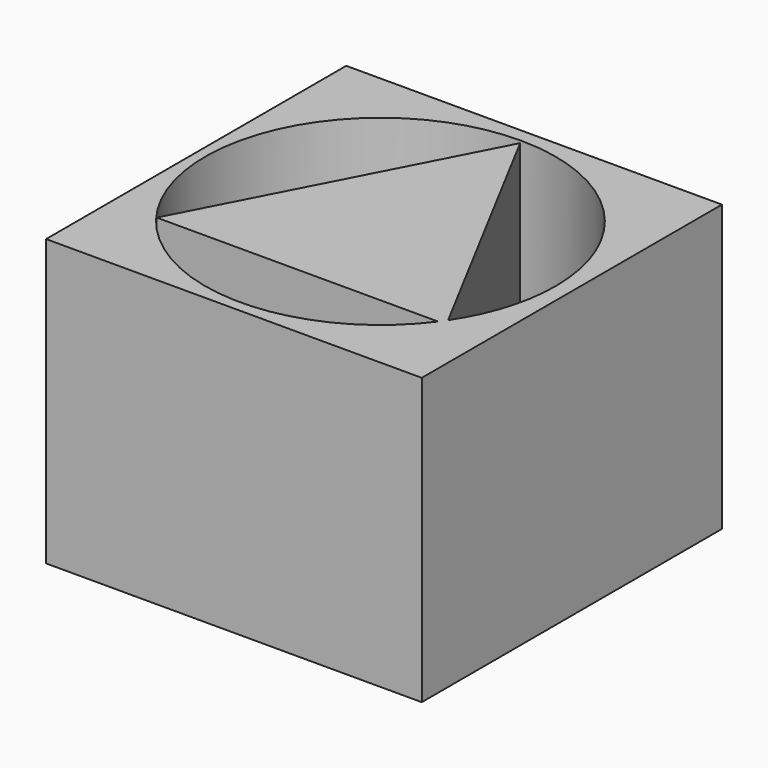
from build123d import *

# Parameters (mm, degrees)
F0_W     = 33.416076
F0_H     = 33.374747
F0_R     = 15.588949
F1_DEPTH = 25.4
F3_DEPTH = 25.4


with BuildPart() as f1:
    # F0 (on Top) → F1 (new body)
    with BuildSketch(Plane.XY):
        with Locations((-33.761238, 29.984143)):
            Rectangle(F0_W, F0_H)
        with Locations((-33.995453, 29.879961)):
            Circle(F0_R, mode=Mode.SUBTRACT)
    extrude(amount=F1_DEPTH)

    # F2 (on Top) → F3 (join)
    with BuildSketch(Plane.XY):
        Polygon((-20.725947, 20.616256), (-33.770509, 45.134839), (-46.487864, 20.616256), align=None)
    extrude(amount=F3_DEPTH)


solid = f1.part
